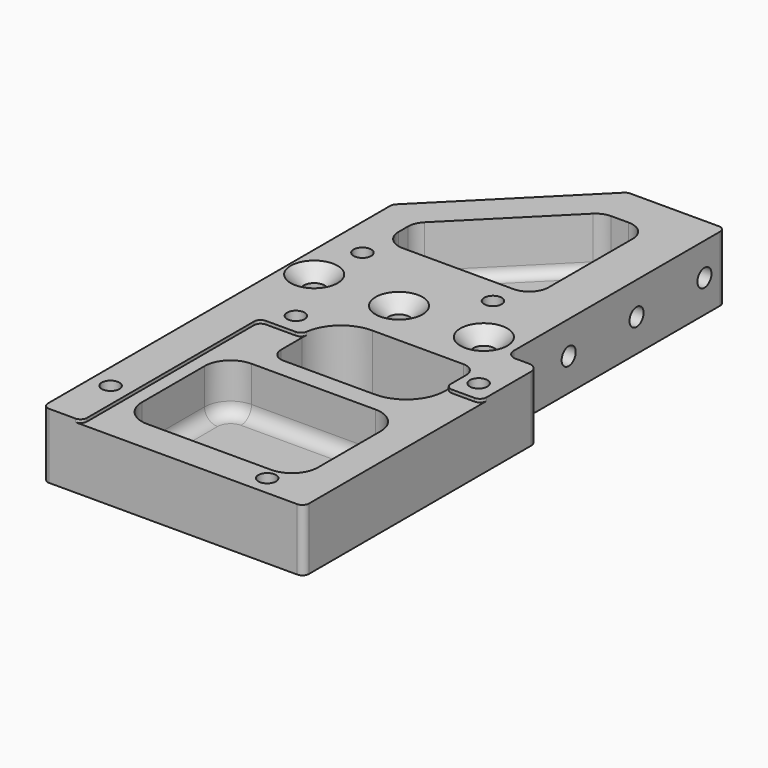
from build123d import *

# Parameters (mm, degrees)
SKETCH_W         = 40
SKETCH_H         = 87
PAD_DEPTH        = 5
SKETCH001_R      = 1.35
POCKET_DEPTH     = 10.001
SKETCH009_R      = 1.6
POCKET007_DEPTH  = 10.001
SKETCH010_W      = 5
SKETCH010_H      = 42
POCKET008_DEPTH  = 10.001
CHAMFER_SIZE     = 2
FILLET_R         = 1.5
CHAMFER001_SIZE2 = 20
CHAMFER001_SIZE  = 20
SKETCH011_W      = 22
SKETCH011_H      = 12
POCKET009_DEPTH  = 12
FILLET001_R      = 6
FILLET009_R      = 2
SKETCH012_W      = 27
SKETCH012_H      = 20
POCKET010_DEPTH  = 8
FILLET002_R      = 4
FILLET003_R      = 2
POCKET011_DEPTH  = 8
FILLET004_R      = 3
FILLET005_R      = 1.5
SKETCH014_R      = 1.35
POCKET012_DEPTH  = 10.001
SKETCH015_R      = 1.35
POCKET013_DEPTH  = 10.001
SKETCH016_W      = 34
SKETCH016_H      = 34
POCKET014_DEPTH  = 0.5
SKETCH017_R      = 1.35
POCKET015_DEPTH  = 13
FILLET010_R      = 1
FILLET011_R      = 1


with BuildPart() as part:
    # Sketch → Pad (new body, symmetric)
    with BuildSketch(Plane.XY):
        Rectangle(SKETCH_W, SKETCH_H)
    extrude(amount=PAD_DEPTH, both=True)

    # Sketch001 (on Face6 of Pad) → Pocket (cut, through all)
    with BuildSketch(Plane.XY.offset(5)):
        with Locations((17, -6.25)):
            Circle(SKETCH001_R)
        with Locations((-11, -6.25)):
            Circle(SKETCH001_R)
        with Locations((-17, -34.25)):
            Circle(SKETCH001_R)
    extrude(amount=-POCKET_DEPTH, mode=Mode.SUBTRACT)

    # Sketch009 (on Face5 of Pocket) → Pocket007 (cut, through all)
    with BuildSketch(Plane.XY.offset(5)):
        with Locations((-16, 3.5)):
            Circle(SKETCH009_R)
        with Locations((-3, 3.5)):
            Circle(SKETCH009_R)
        with Locations((10, 3.5)):
            Circle(SKETCH009_R)
    extrude(amount=-POCKET007_DEPTH, mode=Mode.SUBTRACT)

    # Sketch010 (on Face5 of Pocket007) → Pocket008 (cut, through all)
    with BuildSketch(Plane.XY.offset(5)):
        with Locations((17.5, 22.5)):
            Rectangle(SKETCH010_W, SKETCH010_H)
    extrude(amount=-POCKET008_DEPTH, mode=Mode.SUBTRACT)

    # Chamfer
    chamfer_edges = [part.edges().sort_by_distance(p)[0] for p in [
        (8.4, 3.5, 5),
        (-4.6, 3.5, 5),
        (-17.6, 3.5, 5),
    ]]
    chamfer(chamfer_edges, length=CHAMFER_SIZE)

    # Fillet
    fillet_edges = [part.edges().sort_by_distance(p)[0] for p in [
        (20, 1.5, 0),
        (15, 1.5, 0),
    ]]
    fillet(fillet_edges, radius=FILLET_R)

    # Chamfer001
    chamfer001_edges = [part.edges().sort_by_distance(p)[0] for p in [
        (-20, 43.5, 0),
    ]]
    chamfer001_side = part.faces().sort_by_distance((-2.5, 43.5, 0))[0]
    chamfer(chamfer001_edges, length=CHAMFER001_SIZE, length2=CHAMFER001_SIZE2, reference=chamfer001_side)

    # Sketch011 (on Face1 of Chamfer001) → Pocket009 (cut)
    with BuildSketch(Plane.XY.offset(5)):
        with Locations((3.5, -9.5)):
            Rectangle(SKETCH011_W, SKETCH011_H)
    extrude(amount=-POCKET009_DEPTH, mode=Mode.SUBTRACT)

    # Fillet001
    fillet001_edges = [part.edges().sort_by_distance(p)[0] for p in [
        (-7.5, -3.5, 0),
        (14.5, -15.5, 0),
    ]]
    fillet(fillet001_edges, radius=FILLET001_R)

    # Fillet009
    fillet009_edges = [part.edges().sort_by_distance(p)[0] for p in [
        (14.5, -3.5, 0),
        (-7.5, -15.5, 0),
    ]]
    fillet(fillet009_edges, radius=FILLET009_R)

    # Sketch012 (on Face1 of Fillet001) → Pocket010 (cut)
    with BuildSketch(Plane.XY.offset(5)):
        with Locations((1.5, -28.5)):
            Rectangle(SKETCH012_W, SKETCH012_H)
    extrude(amount=-POCKET010_DEPTH, mode=Mode.SUBTRACT)

    # Fillet002
    fillet002_edges = [part.edges().sort_by_distance(p)[0] for p in [
        (-12, -18.5, 1),
        (-12, -38.5, 1),
        (15, -38.5, 1),
        (15, -18.5, 1),
    ]]
    fillet(fillet002_edges, radius=FILLET002_R)

    # Fillet003
    fillet003_edges = [part.edges().sort_by_distance(p)[0] for p in [
        (-12, -28.5, -3),
    ]]
    fillet(fillet003_edges, radius=FILLET003_R)

    # Sketch013 (on Face4 of Fillet003) → Pocket011 (cut)
    with BuildSketch(Plane.XY.offset(5)):
        Polygon((-15, 21.428932), (1.071068, 37.5), (8, 37.5), (8, 15.428932), (-15, 15.428932), align=None)
    extrude(amount=-POCKET011_DEPTH, mode=Mode.SUBTRACT)

    # Fillet004
    fillet004_edges = [part.edges().sort_by_distance(p)[0] for p in [
        (-15, 15.428932, 1),
        (-15, 21.428932, 1),
        (8, 15.428932, 1),
        (8, 37.5, 1),
        (1.071068, 37.5, 1),
    ]]
    fillet(fillet004_edges, radius=FILLET004_R)

    # Fillet005
    fillet005_edges = [part.edges().sort_by_distance(p)[0] for p in [
        (-3.5, 15.428932, -3),
    ]]
    fillet(fillet005_edges, radius=FILLET005_R)

    # Sketch014 (on Face4 of Fillet005) → Pocket012 (cut, through all)
    with BuildSketch(Plane.XY.offset(5)):
        with Locations((-15, 11.5)):
            Circle(SKETCH014_R)
        with Locations((5, 11.5)):
            Circle(SKETCH014_R)
    extrude(amount=-POCKET012_DEPTH, mode=Mode.SUBTRACT)

    # Sketch015 (on Face56 of Pocket012) → Pocket013 (cut, through all)
    with BuildSketch(Plane(origin=(0, 0, -5), x_dir=(1, 0, 0), z_dir=(0, 0, -1))):
        with Locations((12, 40.5)):
            Circle(SKETCH015_R)
    extrude(amount=-POCKET013_DEPTH, mode=Mode.SUBTRACT)

    # Sketch016 (on Face4 of Pocket013) → Pocket014 (cut)
    with BuildSketch(Plane.XY.offset(5)):
        with Locations((3, -26.5)):
            Rectangle(SKETCH016_W, SKETCH016_H)
    extrude(amount=-POCKET014_DEPTH, mode=Mode.SUBTRACT)

    # Sketch017 (on Face15 of Pocket014) → Pocket015 (cut)
    with BuildSketch(Plane.YZ.offset(20)):
        with Locations((13.5, 0)):
            Circle(SKETCH017_R)
        with Locations((26.5, 0)):
            Circle(SKETCH017_R)
        with Locations((39.5, 0)):
            Circle(SKETCH017_R)
    extrude(amount=-POCKET015_DEPTH, mode=Mode.SUBTRACT)

    # Fillet010
    fillet010_edges = [part.edges().sort_by_distance(p)[0] for p in [
        (-20, -43.5, 0),
        (-20, 23.5, 0),
        (0, 43.5, 0),
        (15, 43.5, 0),
        (20, -43.5, -0.25),
    ]]
    fillet(fillet010_edges, radius=FILLET010_R)

    # Fillet011
    fillet011_edges = [part.edges().sort_by_distance(p)[0] for p in [
        (20, -9.5, 4.75),
        (14.5, -9.5, 4.75),
        (-7.5, -9.5, 4.75),
        (-14, -9.5, 4.75),
        (-14, -43.5, 4.75),
    ]]
    fillet(fillet011_edges, radius=FILLET011_R)


solid = part.part
